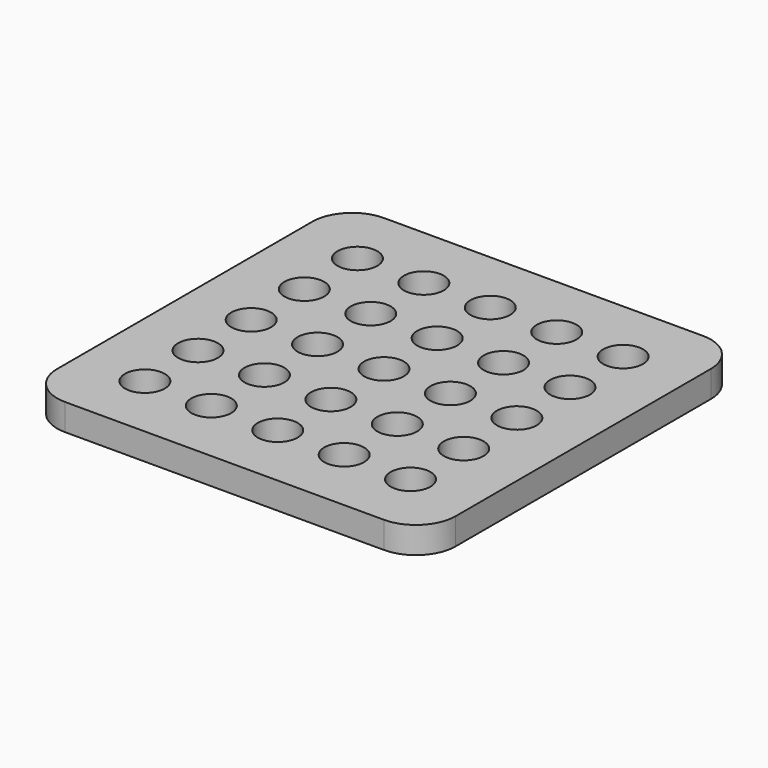
from build123d import *

# Parameters (mm, degrees)
F0_R     = 1.5
F1_DEPTH = 2


with BuildPart() as f1:
    # F0 (on Top) → F1 (new body)
    with BuildSketch(Plane.XY):
        with BuildLine():
            Line((-12, -15), (12, -15))
            ThreePointArc((12, -15), (14.12132, -14.12132), (15, -12))
            Line((15, -12), (15, 12))
            ThreePointArc((15, 12), (14.12132, 14.12132), (12, 15))
            Line((12, 15), (-12, 15))
            ThreePointArc((-12, 15), (-14.12132, 14.12132), (-15, 12))
            Line((-15, 12), (-15, -12))
            ThreePointArc((-15, -12), (-14.12132, -14.12132), (-12, -15))
        make_face()
        with Locations((-10, -10)):
            Circle(F0_R, mode=Mode.SUBTRACT)
        with Locations((-5, -10)):
            Circle(F0_R, mode=Mode.SUBTRACT)
        with Locations((0, -10)):
            Circle(F0_R, mode=Mode.SUBTRACT)
        with Locations((-10, -5)):
            Circle(F0_R, mode=Mode.SUBTRACT)
        with Locations((-5, -5)):
            Circle(F0_R, mode=Mode.SUBTRACT)
        with Locations((0, -5)):
            Circle(F0_R, mode=Mode.SUBTRACT)
        with Locations((5, -10)):
            Circle(F0_R, mode=Mode.SUBTRACT)
        with Locations((10, -10)):
            Circle(F0_R, mode=Mode.SUBTRACT)
        with Locations((5, -5)):
            Circle(F0_R, mode=Mode.SUBTRACT)
        with Locations((10, -5)):
            Circle(F0_R, mode=Mode.SUBTRACT)
        with Locations((-10, 0)):
            Circle(F0_R, mode=Mode.SUBTRACT)
        with Locations((-10, 5)):
            Circle(F0_R, mode=Mode.SUBTRACT)
        with Locations((-5, 0)):
            Circle(F0_R, mode=Mode.SUBTRACT)
        Circle(F0_R, mode=Mode.SUBTRACT)
        with Locations((-5, 5)):
            Circle(F0_R, mode=Mode.SUBTRACT)
        with Locations((0, 5)):
            Circle(F0_R, mode=Mode.SUBTRACT)
        with Locations((-10, 10)):
            Circle(F0_R, mode=Mode.SUBTRACT)
        with Locations((-5, 10)):
            Circle(F0_R, mode=Mode.SUBTRACT)
        with Locations((0, 10)):
            Circle(F0_R, mode=Mode.SUBTRACT)
        with Locations((5, 0)):
            Circle(F0_R, mode=Mode.SUBTRACT)
        with Locations((5, 5)):
            Circle(F0_R, mode=Mode.SUBTRACT)
        with Locations((10, 0)):
            Circle(F0_R, mode=Mode.SUBTRACT)
        with Locations((10, 5)):
            Circle(F0_R, mode=Mode.SUBTRACT)
        with Locations((5, 10)):
            Circle(F0_R, mode=Mode.SUBTRACT)
        with Locations((10, 10)):
            Circle(F0_R, mode=Mode.SUBTRACT)
    extrude(amount=F1_DEPTH)


solid = f1.part
